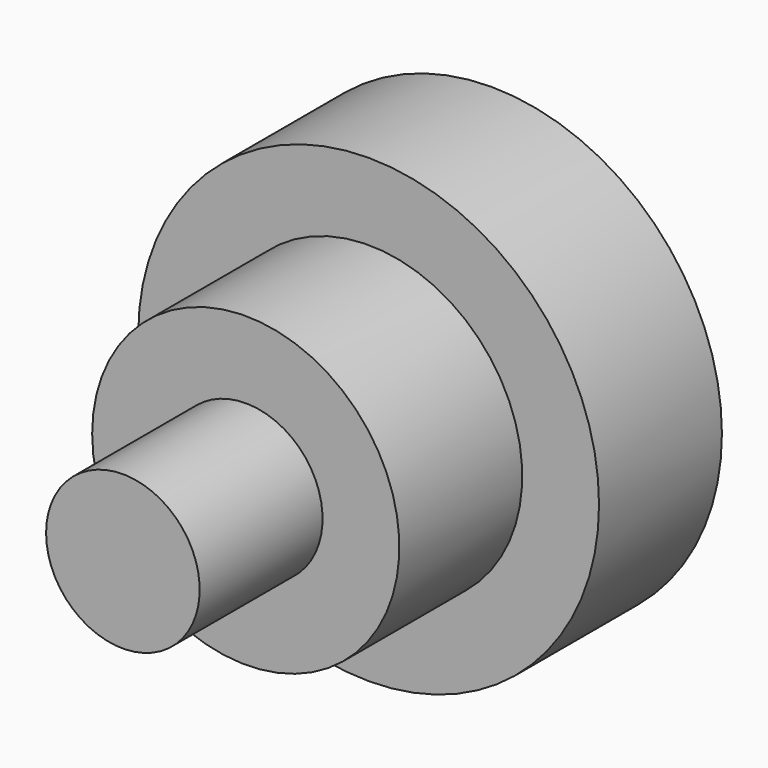
from build123d import *

# Parameters (mm, degrees)
F0_R     = 38.1
F1_DEPTH = 76.2


with BuildPart() as f1:
    # F0 (on Front) → F1 (new body)
    with BuildSketch(Plane.XZ):
        Circle(F0_R)
    extrude(amount=F1_DEPTH)

    # F2 (on Top) → F3 (revolve, cut)
    with BuildSketch(Plane.XY):
        Polygon((-50.8, -76.2), (-12.7, -76.2), (-12.7, -50.8), (-25.4, -50.8), (-25.4, -25.4), (-50.8, -25.4), align=None)
    revolve(axis=Axis((0, -13.316864, 0), (0, -1, 0)), mode=Mode.SUBTRACT)


solid = f1.part
